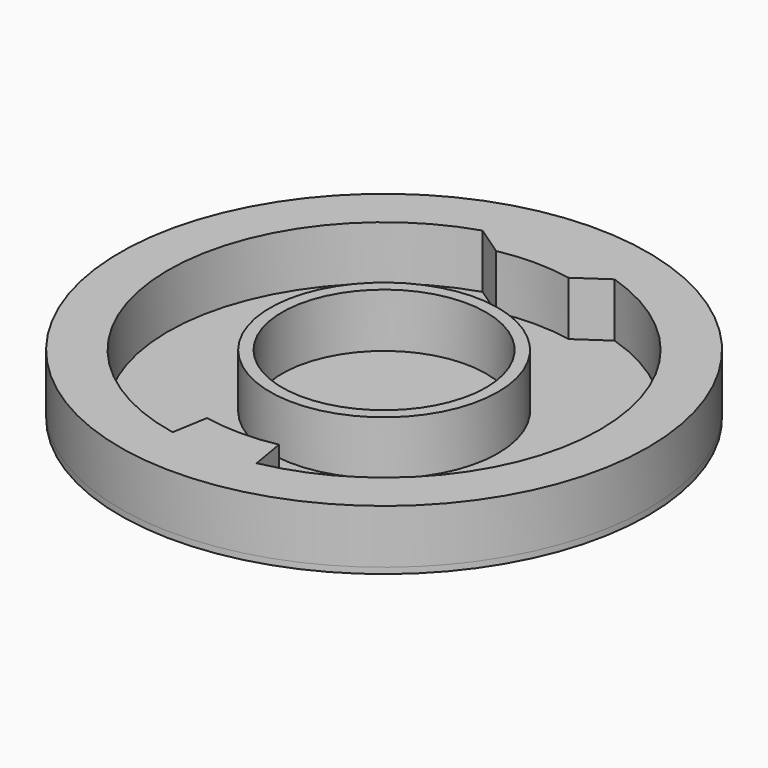
from build123d import *

# Parameters (mm, degrees)
F0_R     = 22
F0_R_2   = 9.5
F0_R_3   = 8.5
F1_DEPTH = 5
F2_DEPTH = 0.5


with BuildPart() as f1:
    # F0 (on Top) → F1 (new body)
    with BuildSketch(Plane.XY):
        Circle(F0_R)
        with BuildLine():
            ThreePointArc((5.5, 17.139137), (14.54304, 10.606602), (18, 0))
            ThreePointArc((18, 0), (13.910428, -11.42366), (3.5, -17.656444))
            ThreePointArc((3.5, -17.656444), (0, -18), (-3.5, -17.656444))
            ThreePointArc((-3.5, -17.656444), (-17.970339, -1.032909), (-5.5, 17.139137))
            ThreePointArc((-5.5, 17.139137), (0, 18), (5.5, 17.139137))
        make_face(mode=Mode.SUBTRACT)
        with BuildLine():
            Line((3.025386, 15.443175), (5.5, 17.139137))
            ThreePointArc((5.5, 17.139137), (0, 18), (-5.5, 17.139137))
            Line((-5.5, 17.139137), (-3.025386, 15.443175))
            ThreePointArc((-3.025386, 15.443175), (0, 15.736728), (3.025386, 15.443175))
        make_face()
        with BuildLine():
            ThreePointArc((-3.5, -17.656444), (0, -18), (3.5, -17.656444))
            Line((3.5, -17.656444), (3, -14.698404))
            ThreePointArc((3, -14.698404), (0, -15.001436), (-3, -14.698404))
            Line((-3, -14.698404), (-3.5, -17.656444))
        make_face()
        Circle(F0_R_2)
        Circle(F0_R_3, mode=Mode.SUBTRACT)
    extrude(amount=F1_DEPTH)


with BuildPart() as f2:
    # F0 (on Top) → F2 (new body)
    with BuildSketch(Plane.XY):
        Circle(F0_R)
        with BuildLine():
            ThreePointArc((5.5, 17.139137), (14.54304, 10.606602), (18, 0))
            ThreePointArc((18, 0), (13.910428, -11.42366), (3.5, -17.656444))
            ThreePointArc((3.5, -17.656444), (0, -18), (-3.5, -17.656444))
            ThreePointArc((-3.5, -17.656444), (-17.970339, -1.032909), (-5.5, 17.139137))
            ThreePointArc((-5.5, 17.139137), (0, 18), (5.5, 17.139137))
        make_face(mode=Mode.SUBTRACT)
        with BuildLine():
            ThreePointArc((3.5, -17.656444), (13.910428, -11.42366), (18, 0))
            ThreePointArc((18, 0), (14.54304, 10.606602), (5.5, 17.139137))
            Line((5.5, 17.139137), (3.025386, 15.443175))
            ThreePointArc((3.025386, 15.443175), (0, 15.736728), (-3.025386, 15.443175))
            Line((-3.025386, 15.443175), (-5.5, 17.139137))
            ThreePointArc((-5.5, 17.139137), (-17.970339, -1.032909), (-3.5, -17.656444))
            Line((-3.5, -17.656444), (-3, -14.698404))
            ThreePointArc((-3, -14.698404), (0, -15.001436), (3, -14.698404))
            Line((3, -14.698404), (3.5, -17.656444))
        make_face()
        Circle(F0_R_2, mode=Mode.SUBTRACT)
        Circle(F0_R_3)
    extrude(amount=F2_DEPTH)


solid = Compound([f1.part, f2.part])
